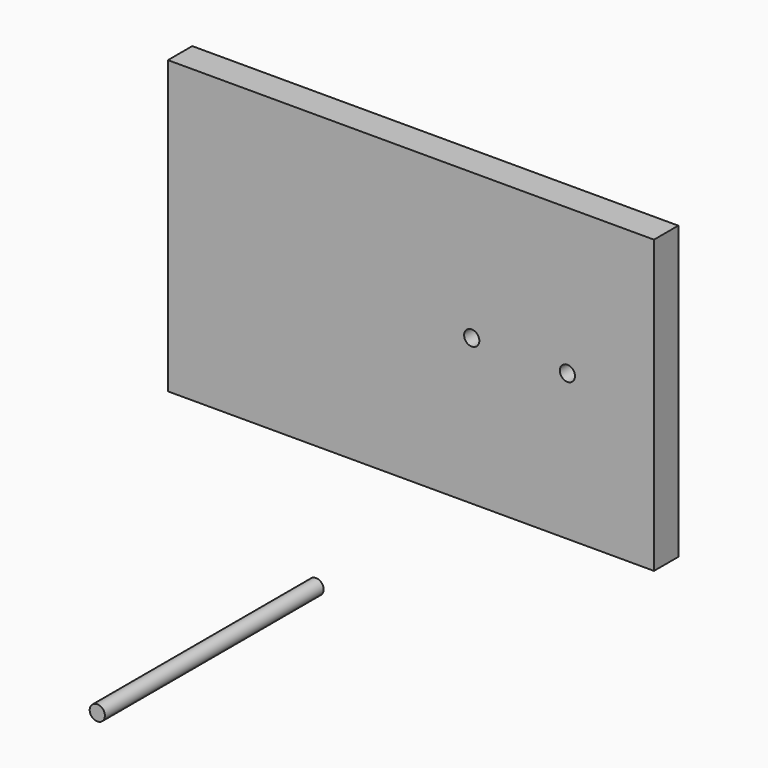
from build123d import *

# Parameters (mm, degrees)
F0_W      = 101.6
F0_H      = 60.96
F0_R      = 1.5875
F1_DEPTH  = 6.35
F1_FACE_R = 1.5875
F2_DEPTH  = 50.8


with BuildPart() as f1:
    # F0 (on Front) → F1 (new body)
    with BuildSketch(Plane.XZ):
        with Locations((-32.7025, 47.594372)):
            Rectangle(F0_W, F0_H)
        with Locations((-20.0025, 47.594372)):
            Circle(F0_R, mode=Mode.SUBTRACT)
        with Locations((0, 47.594372)):
            Circle(F0_R, mode=Mode.SUBTRACT)
        with Locations((-57.630971, -12.982623)):
            Circle(F0_R)
    extrude(amount=F1_DEPTH)

    # F1_face (on face) → F2 (join)
    with BuildSketch(Plane(origin=(-57.630971, -6.35, -12.982623), x_dir=(1, 0, 0), z_dir=(0, -1, 0))):
        Circle(F1_FACE_R)
        Circle(F1_FACE_R)
    extrude(amount=F2_DEPTH)


solid = f1.part
